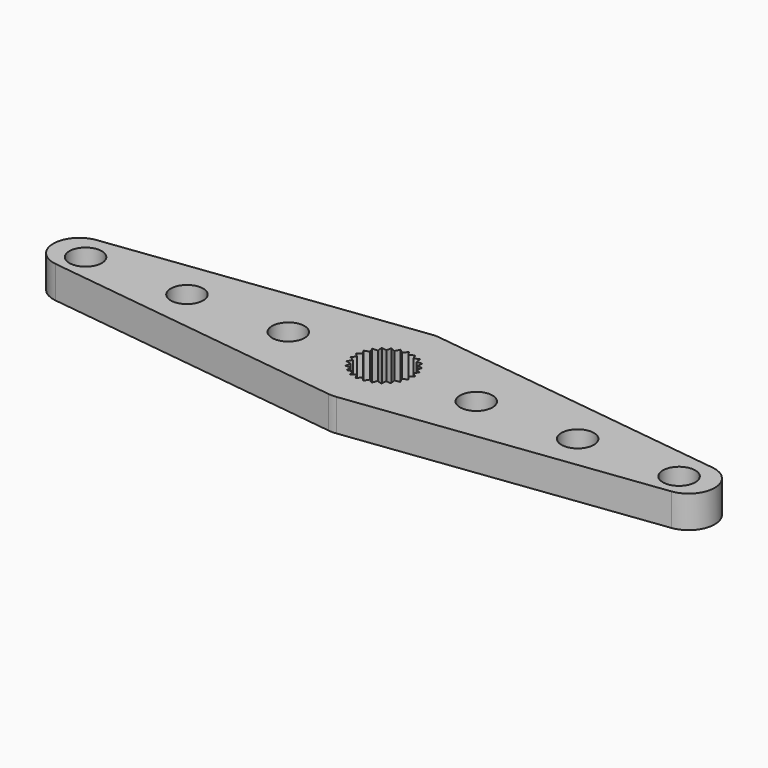
from build123d import *

# Parameters (mm, degrees)
F0_R     = 1.6
F1_DEPTH = 3.175


with BuildPart() as f1:
    # F0 (on Top) → F1 (new body)
    with BuildSketch(Plane.XY):
        with BuildLine():
            ThreePointArc((0.380676, 6.35), (0, 6.374076), (-0.380676, 6.35))
            Line((-0.380676, 6.35), (-30.380676, 2.54))
            ThreePointArc((-30.380676, 2.54), (-32.618498, 0), (-30.380676, -2.54))
            Line((-30.380676, -2.54), (-0.380676, -6.35))
            ThreePointArc((-0.380676, -6.35), (0, -6.374076), (0.380676, -6.35))
            Line((0.380676, -6.35), (30.380676, -2.54))
            ThreePointArc((30.380676, -2.54), (32.618498, 0), (30.380676, 2.54))
            Line((30.380676, 2.54), (0.380676, 6.35))
        make_face()
        with Locations((-29.271, -0.208449)):
            Circle(F0_R, mode=Mode.SUBTRACT)
        with Locations((-19.271, -0.208449)):
            Circle(F0_R, mode=Mode.SUBTRACT)
        with Locations((-9.271, -0.208449)):
            Circle(F0_R, mode=Mode.SUBTRACT)
        with Locations((9.271, -0.208449)):
            Circle(F0_R, mode=Mode.SUBTRACT)
        with Locations((19.271, -0.208449)):
            Circle(F0_R, mode=Mode.SUBTRACT)
        with Locations((29.271, -0.208449)):
            Circle(F0_R, mode=Mode.SUBTRACT)
        Polygon((-2.313127, 1.150841), (-2.481189, 1.651718), (-1.954254, 1.689937), (-1.992473, 2.216873), (-1.472587, 2.122848), (-1.378562, 2.642733), (-0.898392, 2.422372), (-0.678031, 2.902541), (-0.267748, 2.56969), (0.065104, 2.979972), (0.37972, 2.555544), (0.804147, 2.87016), (1.003328, 2.380825), (1.492663, 2.580005), (1.563894, 2.056509), (2.08739, 2.12774), (2.026194, 1.602976), (2.550958, 1.54178), (2.361181, 1.048721), (2.85424, 0.858945), (2.547807, 0.428572), (2.97818, 0.122139), (2.574344, -0.218506), (2.914989, -0.622342), (2.439126, -0.851855), (2.668639, -1.327718), (2.150649, -1.431678), (2.254609, -1.949669), (1.727038, -1.921544), (1.698914, -2.449115), (1.194912, -2.290672), (1.036469, -2.794674), (0.587704, -2.515869), (0.308899, -2.964634), (-0.056431, -2.582985), (-0.43808, -2.948314), (-0.69702, -2.487802), (-1.157533, -2.746742), (-1.293813, -2.236301), (-1.804254, -2.372581), (-1.809311, -1.844285), (-2.337607, -1.849342), (-2.211123, -1.336386), (-2.724079, -1.209903), (-2.474002, -0.744517), (-2.939388, -0.494441), (-2.581431, -0.105868), (-2.970004, 0.252089), (-2.526659, 0.539434), (-2.814004, 0.982779), align=None, mode=Mode.SUBTRACT)
    extrude(amount=F1_DEPTH)


solid = f1.part
